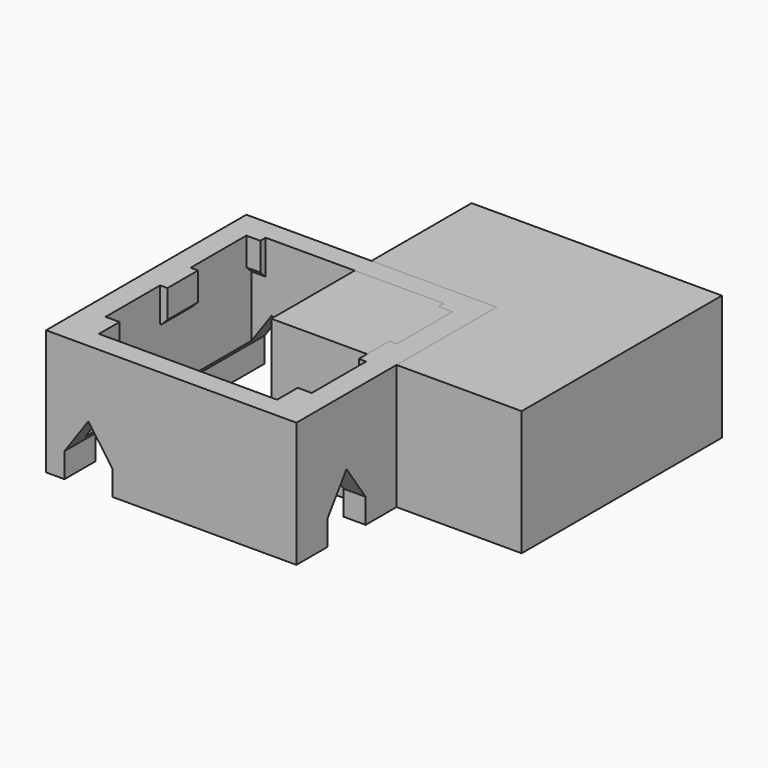
from build123d import *

# Parameters (mm, degrees)
BOX_W                      = 17
BOX_H                      = 17
BOX_DEPTH                  = 8.5
EXTRUDE002_DEPTH           = 25
EXTRUDE002_PLACEMENT_ANGLE = 90
LINK_PLACEMENT_ANGLE       = 90
SKETCH001_W                = 14
SKETCH001_H                = 14.15
EXTRUDE_DEPTH              = 10
BOX001_W                   = 17
BOX001_H                   = 17
BOX001_DEPTH               = 8.5
SKETCH002_W                = 0.95
SKETCH002_H                = 0.45
SKETCH002_W_2              = 0.5
SKETCH002_H_2              = 2.6
SKETCH002_H_3              = 1.75
EXTRUDE001_DEPTH           = 2.3
CHAMFER_1_SIZE             = 0.8
CHAMFER_2_SIZE             = 0.4
EXTRUDE003_DEPTH           = 8
CLONE_PLACEMENT_ANGLE      = 270


with BuildPart() as body:
    # Box → Box (join)
    with BuildSketch(Plane.XY):
        with Locations((8.5, 8.5)):
            Rectangle(BOX_W, BOX_H)
    extrude(amount=BOX_DEPTH)


with BuildPart() as extrude002:
    # Sketch004 → Extrude002 (new body, symmetric)
    with BuildSketch(Plane.XZ):
        Polygon((-8.5, 0), (-5.25, 0), (-5.25, 1.679259), (-6.875, 4), (-8.5, 1.679259), align=None)
    extrude(amount=EXTRUDE002_DEPTH, both=True)


with BuildPart() as extrude002_1:
    # Extrude002 placement: moved
    add(extrude002.part.moved(Location((0, 2.63, 0))).rotate(Axis((0, 2.63, 0), (0, 0, 1)), EXTRUDE002_PLACEMENT_ANGLE))


with BuildPart() as extrude003:
    # Link base: copy of Extrude002
    add(extrude002_1.part)


with BuildPart() as extrude003_1:
    # Link placement: moved
    add(extrude003.part.moved(Location((-1.38, 0, 0))).rotate(Axis((-1.38, 0, 0), (0, 0, -1)), LINK_PLACEMENT_ANGLE))


with BuildPart() as extrude_body:
    # Sketch001 (on Face6 of Box001) → Extrude (new body)
    with BuildSketch(Plane(origin=(-8.5, -8.5, 8.5), x_dir=(1, 0, 0), z_dir=(0, 0, 1))):
        with Locations((8.5, 8.5)):
            Rectangle(SKETCH001_W, SKETCH001_H)
    extrude(amount=-EXTRUDE_DEPTH)


with BuildPart() as cut002:
    # Box001 → Box001 (new body)
    with BuildSketch(Plane(origin=(-8.5, -8.5, 0), x_dir=(1, 0, 0), z_dir=(0, 0, 1))):
        with Locations((8.5, 8.5)):
            Rectangle(BOX001_W, BOX001_H)
    extrude(amount=BOX001_DEPTH)

    # Cut: cut Extrude body
    add(extrude_body.part, mode=Mode.SUBTRACT)

    # Cut001: cut Extrude002
    add(extrude002_1.part, mode=Mode.SUBTRACT)

    # Cut002: cut Extrude003
    add(extrude003_1.part, mode=Mode.SUBTRACT)


with BuildPart() as chamfer_body:
    # Sketch002 (on Face3 of Cut) → Extrude001 (new body)
    with BuildSketch(Plane.XY.offset(8.5)):
        with Locations((6.525, 6.85)):
            Rectangle(SKETCH002_W, SKETCH002_H)
        with Locations((6.75, 0.6)):
            Rectangle(SKETCH002_W_2, SKETCH002_H_2)
        with Locations((6.525, -6.2)):
            Rectangle(SKETCH002_W, SKETCH002_H_3)
    extrude(amount=-EXTRUDE001_DEPTH)

    # Chamfer 1
    chamfer_1_edges = [chamfer_body.edges().sort_by_distance(p)[0] for p in [
        (6.05, -6.2, 6.2),
    ]]
    chamfer(chamfer_1_edges, length=CHAMFER_1_SIZE)

    # Chamfer 2
    chamfer_2_edges = [chamfer_body.edges().sort_by_distance(p)[0] for p in [
        (6.525, 6.625, 6.2),
        (6.5, 0.6, 6.2),
    ]]
    chamfer(chamfer_2_edges, length=CHAMFER_2_SIZE)


with BuildPart() as part_mirroring:
    # Part__Mirroring: instance of Chamfer body
    add(chamfer_body.part.mirror(Plane(origin=(0, 0, 0), x_dir=(0, -1, 0), z_dir=(1, 0, 0))))


with BuildPart() as extrude004:
    # Sketch005 (on Face12 of Cut002) → Extrude003 (new body)
    with BuildSketch(Plane(origin=(7, 0, 0), x_dir=(0, -1, 0), z_dir=(-1, 0, 0))):
        Polygon((-7.075, 3), (-4.557701, 0), (-7.075, 0), align=None)
    extrude(amount=EXTRUDE003_DEPTH)


with BuildPart() as extrude005:
    # Clone base: copy of Extrude004
    add(extrude004.part)


with BuildPart() as extrude005_1:
    # Clone placement: moved
    add(extrude005.part.moved(Location((0, 6.07, 0))).rotate(Axis((0, 6.07, 0), (0, 0, 1)), CLONE_PLACEMENT_ANGLE))


with BuildPart() as chamfer001:
    # Clone001 base: copy of Chamfer body
    add(chamfer_body.part)


with BuildPart() as fusion:
    # Fusion base: copy of Extrude004
    add(extrude004.part)

    # Fusion: union Cut002, Part__Mirroring, Extrude005, Chamfer001
    add(cut002.part)
    add(part_mirroring.part)
    add(extrude005_1.part)
    add(chamfer001.part)


solid = Compound([body.part, fusion.part])
